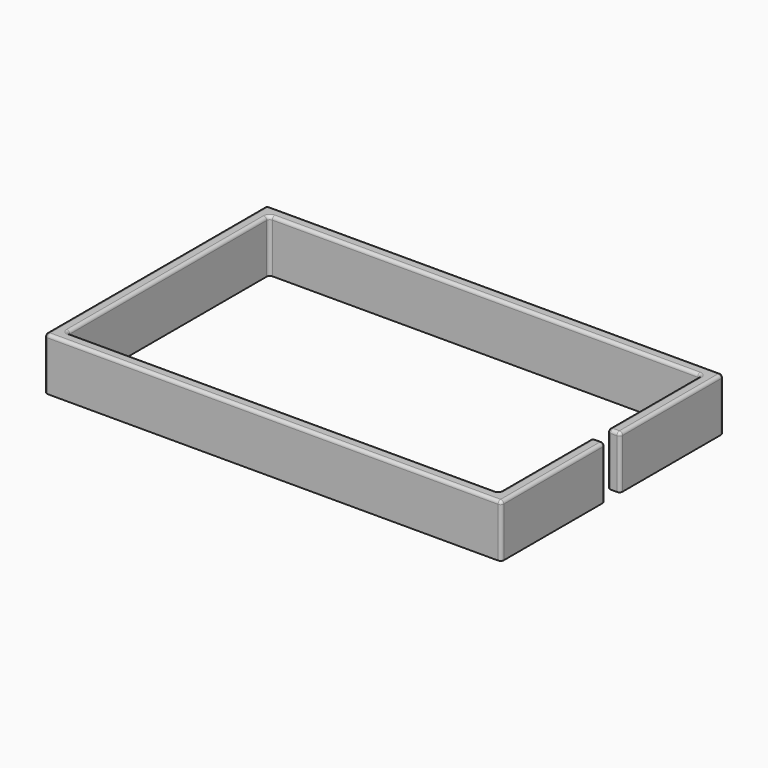
from build123d import *

# Parameters (mm, degrees)
F1_DEPTH = 6.35
F2_R     = 0.381


with BuildPart() as f1:
    # F0 (on Top) → F1 (new body)
    with BuildSketch(Plane.XY):
        Polygon((-26.035, -15.24), (-26.035, 15.24), (26.035, 15.24), (26.035, 1.157901), (27.559, 1.157901), (27.559, 16.764), (-27.559, 16.764), (-27.559, -16.764), (27.559, -16.764), (27.559, -1.09148), (26.035, -1.09148), (26.035, -15.24), align=None)
    extrude(amount=F1_DEPTH)

    # F2
    f2_edges = [f1.edges().sort_by_distance(p)[0] for p in [
        (-26.035, 0, 6.35),
        (0, 15.24, 6.35),
        (26.035, 8.19895, 6.35),
        (26.797, 1.157901, 6.35),
        (27.559, 8.96095, 6.35),
        (0, 16.764, 6.35),
        (-27.559, 0, 6.35),
        (0, -16.764, 6.35),
        (27.559, -8.92774, 6.35),
        (26.797, -1.09148, 6.35),
        (26.035, -8.16574, 6.35),
        (0, -15.24, 6.35),
        (27.559, -16.764, 3.175),
        (-27.559, -16.764, 3.175),
        (-27.559, 16.764, 3.175),
        (27.559, 16.764, 3.175),
        (27.559, -1.09148, 3.175),
        (27.559, 1.157901, 3.175),
        (-26.035, -15.24, 3.175),
        (-26.035, 15.24, 3.175),
        (26.035, 15.24, 3.175),
        (26.035, 1.157901, 3.175),
        (26.035, -1.09148, 3.175),
        (26.035, -15.24, 3.175),
    ]]
    fillet(f2_edges, radius=F2_R)


solid = f1.part
